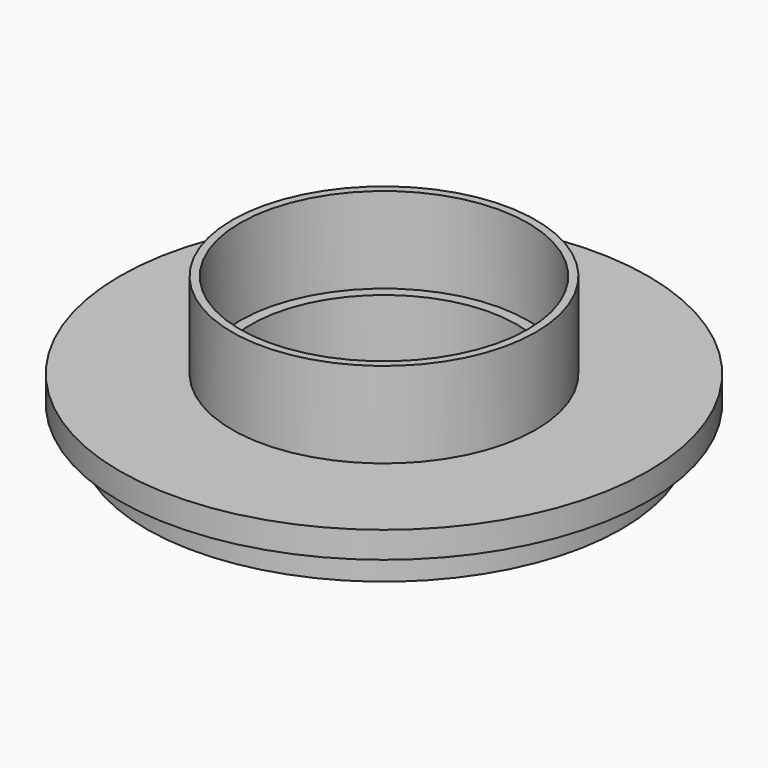
from build123d import *

# Parameters (mm, degrees)
F0_W   = 14.2
F0_H   = 5
F0_W_2 = 1.65
F0_H_2 = 4
F0_W_3 = 1.2
F0_H_3 = 13


with BuildPart() as f1:
    # F0 (on Front) → F1 (revolve)
    with BuildSketch(Plane.XZ):
        with Locations((28.9, 2.5)):
            Rectangle(F0_W, F0_H)
        Polygon((21.8, 9), (21.8, 5), (36, 5), (40, 5), (40, 9), (23, 9), align=None)
        with Locations((20.975, 7)):
            Rectangle(F0_W_2, F0_H_2)
        with Locations((20.975, 2.5)):
            Rectangle(F0_W_2, F0_H)
        with Locations((22.4, 15.5)):
            Rectangle(F0_W_3, F0_H_3)
    revolve(axis=Axis((0, 0, 2.5), (0, 0, 1)))


solid = f1.part
